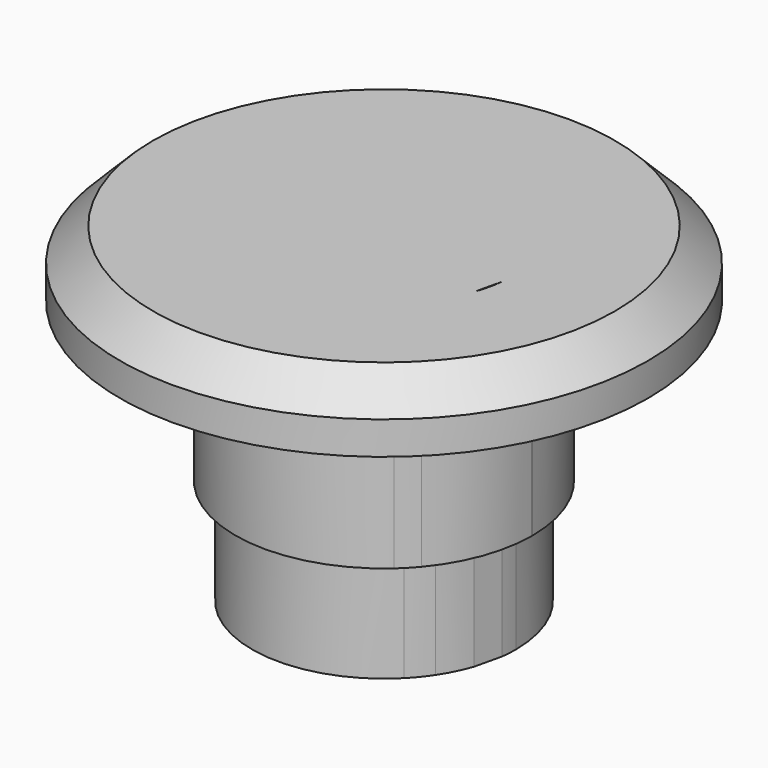
from build123d import *

# Parameters (mm, degrees)
F0_R     = 8
F1_DEPTH = 2
F2_DEPTH = 10
F3_SIZE  = 1
F4_DEPTH = 6.8


with BuildPart() as f1:
    # F0 (on Top) → F1 (new body)
    with BuildSketch(Plane.XY):
        Circle(F0_R)
        with BuildLine():
            Line((-0.4206175605, 4.6308473112), (-0.4206175605, 4.480299194))
            ThreePointArc((-0.4206175605, 4.480299194), (3.0296221693, 3.3273697587), (4.5, 0))
            ThreePointArc((4.5, 0), (4.4999743656, -0.0151891034), (4.4998974627, -0.0303780337))
            Line((4.4998974627, -0.0303780337), (4.81998135, -0.0303780337))
            Line((4.81998135, -0.0303780337), (3.914092806, -3.5892815224))
            Line((3.914092806, -3.5892815224), (3.0549396986, -3.5892815224))
            Line((3.0549396986, -3.5892815224), (2.9953533938, -3.3582522309))
            ThreePointArc((2.9953533938, -3.3582522309), (-1.8399605604, -4.1066464586), (-4.5, 0))
            Line((-4.5, 0), (-4.5284801459, 0))
            Line((-4.5284801459, 0), (-4.5284801459, 4.6308473112))
            Line((-4.5284801459, 4.6308473112), (-3.2899387989, 4.6308473112))
            Line((-3.2899387989, 4.6308473112), (-2.6946144665, 3.6040328629))
            ThreePointArc((-2.6946144665, 3.6040328629), (-2.0301577082, 4.0160253585), (-1.3044212058, 4.3067952491))
            Line((-1.3044212058, 4.3067952491), (-1.3044212058, 4.6308473112))
            Line((-1.3044212058, 4.6308473112), (-0.4206175605, 4.6308473112))
        make_face(mode=Mode.SUBTRACT)
        with BuildLine():
            Line((4.81998135, -0.0303780337), (4.4998974627, -0.0303780337))
            ThreePointArc((4.4998974627, -0.0303780337), (4.2245195635, -1.5503014087), (3.4513785085, -2.8875571667))
            add(Edge.make_bspline(
                [(3.449075213, -2.9053863018), (3.4501950312, -2.8965722486), (3.4513785085, -2.8875571667)],
                knots=[0, 0, 0, 0.0463757333, 0.0463757333, 0.0463757333], degree=2))
            add(Edge.make_bspline(
                [(3.4473158422, -2.8924061755), (3.4482086621, -2.8989381442), (3.449075213, -2.9053863018)],
                knots=[0.9672794895, 0.9672794895, 0.9672794895, 1, 1, 1], degree=2))
            ThreePointArc((3.4473158422, -2.8924061755), (3.2297445499, -3.133488494), (2.9953533938, -3.3582522309))
            Line((2.9953533938, -3.3582522309), (3.0549396986, -3.5892815224))
            Line((3.0549396986, -3.5892815224), (3.914092806, -3.5892815224))
            Line((3.914092806, -3.5892815224), (4.81998135, -0.0303780337))
        make_face()
        with BuildLine():
            Line((3.6243330998, -1.9730143438), (3.7775337391, -1.3153854378))
            ThreePointArc((3.7775337391, -1.3153854378), (3.582032846, -1.7801799601), (3.3296101941, -2.2166858043))
            add(Edge.make_bspline(
                [(3.3296101941, -2.2166858043), (3.3489440989, -2.3108458429), (3.3715722808, -2.4329689313)],
                knots=[0.5564798986, 0.5564798986, 0.5564798986, 1, 1, 1], degree=2))
            add(Edge.make_bspline(
                [(3.3715722808, -2.4329689313), (3.4209224143, -2.6993089647), (3.4473158422, -2.8924061755)],
                knots=[0, 0, 0, 0.9672794895, 0.9672794895, 0.9672794895], degree=2))
            ThreePointArc((3.4473158422, -2.8924061755), (3.4493480274, -2.889982385), (3.4513785085, -2.8875571667))
            add(Edge.make_bspline(
                [(3.4513785085, -2.8875571667), (3.4757143538, -2.7021800266), (3.5269676071, -2.4318005454)],
                knots=[0.0463757333, 0.0463757333, 0.0463757333, 1, 1, 1], degree=2))
            add(Edge.make_bspline(
                [(3.5269676071, -2.4318005454), (3.5807133591, -2.1482722307), (3.6243330998, -1.9730143438)],
                knots=[0, 0, 0, 1, 1, 1], degree=2))
        make_face()
        with BuildLine():
            add(Edge.make_bspline(
                [(3.449075213, -2.9053863018), (3.4501950312, -2.8965722486), (3.4513785085, -2.8875571667)],
                knots=[0, 0, 0, 0.0463757333, 0.0463757333, 0.0463757333], degree=2))
            ThreePointArc((3.4513785085, -2.8875571667), (3.4493480274, -2.889982385), (3.4473158422, -2.8924061755))
            add(Edge.make_bspline(
                [(3.4473158422, -2.8924061755), (3.4482086621, -2.8989381442), (3.449075213, -2.9053863018)],
                knots=[0.9672794895, 0.9672794895, 0.9672794895, 1, 1, 1], degree=2))
        make_face()
        with BuildLine():
            ThreePointArc((-3.3782910952, 2.9727343097), (-3.0528150871, 3.3061034533), (-2.6946144665, 3.6040328629))
            Line((-2.6946144665, 3.6040328629), (-3.2899387989, 4.6308473112))
            Line((-3.2899387989, 4.6308473112), (-4.5284801459, 4.6308473112))
            Line((-4.5284801459, 4.6308473112), (-4.5284801459, 0))
            Line((-4.5284801459, 0), (-4.5, 0))
            ThreePointArc((-4.5, 0), (-4.2853533562, 1.373224895), (-3.6618903945, 2.6154461834))
            add(Edge.make_bspline(
                [(-3.7115698957, 3.5027814199), (-3.6767769858, 2.9721895436), (-3.6618903945, 2.6154461834)],
                knots=[0, 0, 0, 0.5721372164, 0.5721372164, 0.5721372164], degree=2))
            Line((-3.7115698957, 3.5027814199), (-3.6831908796, 3.5027814199))
            Line((-3.6831908796, 3.5027814199), (-3.3782910952, 2.9727343097))
        make_face()
        with BuildLine():
            ThreePointArc((-1.3044212058, 4.3067952491), (-0.8668711502, 4.4157144845), (-0.4206175605, 4.480299194))
            Line((-0.4206175605, 4.480299194), (-0.4206175605, 4.6308473112))
            Line((-0.4206175605, 4.6308473112), (-1.3044212058, 4.6308473112))
            Line((-1.3044212058, 4.6308473112), (-1.3044212058, 4.3067952491))
        make_face()
        with BuildLine():
            ThreePointArc((-3.6618903945, 2.6154461834), (-3.5246209092, 2.797686088), (-3.3782910952, 2.9727343097))
            Line((-3.3782910952, 2.9727343097), (-3.6831908796, 3.5027814199))
            Line((-3.6831908796, 3.5027814199), (-3.7115698957, 3.5027814199))
            add(Edge.make_bspline(
                [(-3.7115698957, 3.5027814199), (-3.6767769858, 2.9721895436), (-3.6618903945, 2.6154461834)],
                knots=[0, 0, 0, 0.5721372164, 0.5721372164, 0.5721372164], degree=2))
        make_face()
    extrude(amount=-F1_DEPTH)

    # F0 (on Top) → F2 (join)
    with BuildSketch(Plane.XY):
        with BuildLine():
            ThreePointArc((3.969940759, -0.4894592628), (3.9924781174, -0.2451907053), (4, 0))
            ThreePointArc((4, 0), (2.6755868289, 2.9734214503), (-0.4206175605, 3.9778236346))
            Line((-0.4206175605, 3.9778236346), (-0.4206175605, 0))
            Line((-0.4206175605, 0), (-1.6682807341, 0))
            Line((-1.6682807341, 0), (-3.1130920504, 2.5117041796))
            ThreePointArc((-3.1130920504, 2.5117041796), (-3.410240025, 2.0905173934), (-3.6507577183, 1.6346155763))
            Line((-3.6507577183, 1.6346155763), (-3.6507577183, 0))
            Line((-3.6507577183, 0), (-4, 0))
            ThreePointArc((-4, 0), (-1.5149568149, -3.7020137559), (2.8524529245, -2.8041954842))
            Line((2.8524529245, -2.8041954842), (2.5727857788, -1.7198640628))
            add(Edge.make_bspline(
                [(2.5727857788, -1.7198640628), (2.5463023648, -1.6201617983), (2.4816516776, -1.3074238358)],
                knots=[0, 0, 0, 1, 1, 1], degree=2))
            add(Edge.make_bspline(
                [(2.4816516776, -1.3074238358), (2.4170009905, -0.9946858733), (2.4076539032, -0.8871943694)],
                knots=[0, 0, 0, 1, 1, 1], degree=2))
            add(Edge.make_bspline(
                [(2.4076539032, -0.8871943694), (2.3928543483, -1.0188325155), (2.3344350527, -1.3097606076)],
                knots=[0, 0, 0, 1, 1, 1], degree=2))
            add(Edge.make_bspline(
                [(2.3344350527, -1.3097606076), (2.2760157571, -1.6006886998), (2.2440798755, -1.7245376065)],
                knots=[0, 0, 0, 1, 1, 1], degree=2))
            Line((2.2440798755, -1.7245376065), (1.7650416514, -3.5892815224))
            Line((1.7650416514, -3.5892815224), (0.9082253158, -3.5892815224))
            Line((0.9082253158, -3.5892815224), (0, -0.0303780337))
            Line((0, -0.0303780337), (0.7423145162, -0.0303780337))
            Line((0.7423145162, -0.0303780337), (1.197985022, -1.9730143438))
            add(Edge.make_bspline(
                [(1.197985022, -1.9730143438), (1.3171603851, -2.5112507874), (1.3701272131, -2.9053863018)],
                knots=[0, 0, 0, 1, 1, 1], degree=2))
            add(Edge.make_bspline(
                [(1.3701272131, -2.9053863018), (1.384926768, -2.7667378402), (1.437504134, -2.4758097481)],
                knots=[0, 0, 0, 1, 1, 1], degree=2))
            add(Edge.make_bspline(
                [(1.437504134, -2.4758097481), (1.4900815001, -2.1848816559), (1.5360380126, -2.024423324)],
                knots=[0, 0, 0, 1, 1, 1], degree=2))
            Line((1.5360380126, -2.024423324), (2.0548013577, -0.0303780337))
            Line((2.0548013577, -0.0303780337), (2.7675167642, -0.0303780337))
            Line((2.7675167642, -0.0303780337), (3.2862801092, -2.024423324))
            add(Edge.make_bspline(
                [(3.2862801092, -2.024423324), (3.3053521519, -2.0985442172), (3.3296101941, -2.2166858043)],
                knots=[0, 0, 0, 0.5564798986, 0.5564798986, 0.5564798986], degree=2))
            ThreePointArc((3.3296101941, -2.2166858043), (3.582032846, -1.7801799601), (3.7775337391, -1.3153854378))
            Line((3.7775337391, -1.3153854378), (3.969940759, -0.4894592628))
        make_face()
        with BuildLine():
            Line((-3.6507577183, 0), (-3.6507577183, 1.6346155763))
            ThreePointArc((-3.6507577183, 1.6346155763), (-3.9117151528, 0.8357538893), (-4, 0))
            Line((-4, 0), (-3.6507577183, 0))
        make_face()
        with BuildLine():
            Line((-1.3044212058, 2.4385683149), (-1.3044212058, 3.7813338014))
            ThreePointArc((-1.3044212058, 3.7813338014), (-1.8980842541, 3.5209765924), (-2.4418962915, 3.1681449622))
            Line((-2.4418962915, 3.1681449622), (-1.2790827986, 1.1625261252))
            Line((-1.2790827986, 1.1625261252), (-1.2567850002, 1.1625261252))
            add(Edge.make_bspline(
                [(-1.2567850002, 1.1625261252), (-1.3044212058, 2.06558696), (-1.3044212058, 2.4385683149)],
                knots=[0, 0, 0, 1, 1, 1], degree=2))
        make_face()
        with BuildLine():
            ThreePointArc((2.8524529245, -2.8041954842), (3.104958616, -2.5217517707), (3.3296101941, -2.2166858043))
            add(Edge.make_bspline(
                [(3.2862801092, -2.024423324), (3.3053521519, -2.0985442172), (3.3296101941, -2.2166858043)],
                knots=[0, 0, 0, 0.5564798986, 0.5564798986, 0.5564798986], degree=2))
            Line((3.2862801092, -2.024423324), (2.7675167642, -0.0303780337))
            Line((2.7675167642, -0.0303780337), (2.0548013577, -0.0303780337))
            Line((2.0548013577, -0.0303780337), (1.5360380126, -2.024423324))
            add(Edge.make_bspline(
                [(1.437504134, -2.4758097481), (1.4900815001, -2.1848816559), (1.5360380126, -2.024423324)],
                knots=[0, 0, 0, 1, 1, 1], degree=2))
            add(Edge.make_bspline(
                [(1.3701272131, -2.9053863018), (1.384926768, -2.7667378402), (1.437504134, -2.4758097481)],
                knots=[0, 0, 0, 1, 1, 1], degree=2))
            add(Edge.make_bspline(
                [(1.197985022, -1.9730143438), (1.3171603851, -2.5112507874), (1.3701272131, -2.9053863018)],
                knots=[0, 0, 0, 1, 1, 1], degree=2))
            Line((1.197985022, -1.9730143438), (0.7423145162, -0.0303780337))
            Line((0.7423145162, -0.0303780337), (0, -0.0303780337))
            Line((0, -0.0303780337), (0.9082253158, -3.5892815224))
            Line((0.9082253158, -3.5892815224), (1.7650416514, -3.5892815224))
            Line((1.7650416514, -3.5892815224), (2.2440798755, -1.7245376065))
            add(Edge.make_bspline(
                [(2.3344350527, -1.3097606076), (2.2760157571, -1.6006886998), (2.2440798755, -1.7245376065)],
                knots=[0, 0, 0, 1, 1, 1], degree=2))
            add(Edge.make_bspline(
                [(2.4076539032, -0.8871943694), (2.3928543483, -1.0188325155), (2.3344350527, -1.3097606076)],
                knots=[0, 0, 0, 1, 1, 1], degree=2))
            add(Edge.make_bspline(
                [(2.4816516776, -1.3074238358), (2.4170009905, -0.9946858733), (2.4076539032, -0.8871943694)],
                knots=[0, 0, 0, 1, 1, 1], degree=2))
            add(Edge.make_bspline(
                [(2.5727857788, -1.7198640628), (2.5463023648, -1.6201617983), (2.4816516776, -1.3074238358)],
                knots=[0, 0, 0, 1, 1, 1], degree=2))
            Line((2.5727857788, -1.7198640628), (2.8524529245, -2.8041954842))
        make_face()
        with BuildLine():
            Line((-0.4206175605, 0), (-0.4206175605, 3.9778236346))
            ThreePointArc((-0.4206175605, 3.9778236346), (-0.8680966248, 3.9046649344), (-1.3044212058, 3.7813338014))
            Line((-1.3044212058, 3.7813338014), (-1.3044212058, 2.4385683149))
            add(Edge.make_bspline(
                [(-1.2567850002, 1.1625261252), (-1.3044212058, 2.06558696), (-1.3044212058, 2.4385683149)],
                knots=[0, 0, 0, 1, 1, 1], degree=2))
            Line((-1.2567850002, 1.1625261252), (-1.2790827986, 1.1625261252))
            Line((-1.2790827986, 1.1625261252), (-2.4418962915, 3.1681449622))
            ThreePointArc((-2.4418962915, 3.1681449622), (-2.7968200684, 2.8596848612), (-3.1130920504, 2.5117041796))
            Line((-3.1130920504, 2.5117041796), (-1.6682807341, 0))
            Line((-1.6682807341, 0), (-0.4206175605, 0))
        make_face()
    extrude(amount=-F2_DEPTH)

    # F3
    f3_edges = [f1.edges().sort_by_distance(p)[0] for p in [
        (-8, 0, 0),
    ]]
    chamfer(f3_edges, length=F3_SIZE)

    # F0 (on Top) → F4 (join)
    with BuildSketch(Plane.XY):
        with BuildLine():
            Line((4.0768879098, -0.0303780337), (3.969940759, -0.4894592628))
            ThreePointArc((3.969940759, -0.4894592628), (3.8956872033, -0.907535792), (3.7775337391, -1.3153854378))
            Line((3.7775337391, -1.3153854378), (3.6243330998, -1.9730143438))
            add(Edge.make_bspline(
                [(3.5269676071, -2.4318005454), (3.5807133591, -2.1482722307), (3.6243330998, -1.9730143438)],
                knots=[0, 0, 0, 1, 1, 1], degree=2))
            add(Edge.make_bspline(
                [(3.4513785085, -2.8875571667), (3.4757143538, -2.7021800266), (3.5269676071, -2.4318005454)],
                knots=[0.0463757333, 0.0463757333, 0.0463757333, 1, 1, 1], degree=2))
            ThreePointArc((3.4513785085, -2.8875571667), (4.2245195635, -1.5503014087), (4.4998974627, -0.0303780337))
            Line((4.4998974627, -0.0303780337), (4.0768879098, -0.0303780337))
        make_face()
        with BuildLine():
            Line((3.6243330998, -1.9730143438), (3.7775337391, -1.3153854378))
            ThreePointArc((3.7775337391, -1.3153854378), (3.582032846, -1.7801799601), (3.3296101941, -2.2166858043))
            add(Edge.make_bspline(
                [(3.3296101941, -2.2166858043), (3.3489440989, -2.3108458429), (3.3715722808, -2.4329689313)],
                knots=[0.5564798986, 0.5564798986, 0.5564798986, 1, 1, 1], degree=2))
            add(Edge.make_bspline(
                [(3.3715722808, -2.4329689313), (3.4209224143, -2.6993089647), (3.4473158422, -2.8924061755)],
                knots=[0, 0, 0, 0.9672794895, 0.9672794895, 0.9672794895], degree=2))
            ThreePointArc((3.4473158422, -2.8924061755), (3.4493480274, -2.889982385), (3.4513785085, -2.8875571667))
            add(Edge.make_bspline(
                [(3.4513785085, -2.8875571667), (3.4757143538, -2.7021800266), (3.5269676071, -2.4318005454)],
                knots=[0.0463757333, 0.0463757333, 0.0463757333, 1, 1, 1], degree=2))
            add(Edge.make_bspline(
                [(3.5269676071, -2.4318005454), (3.5807133591, -2.1482722307), (3.6243330998, -1.9730143438)],
                knots=[0, 0, 0, 1, 1, 1], degree=2))
        make_face()
        with BuildLine():
            add(Edge.make_bspline(
                [(3.3296101941, -2.2166858043), (3.3489440989, -2.3108458429), (3.3715722808, -2.4329689313)],
                knots=[0.5564798986, 0.5564798986, 0.5564798986, 1, 1, 1], degree=2))
            ThreePointArc((3.3296101941, -2.2166858043), (3.104958616, -2.5217517707), (2.8524529245, -2.8041954842))
            Line((2.8524529245, -2.8041954842), (2.9953533938, -3.3582522309))
            ThreePointArc((2.9953533938, -3.3582522309), (3.2297445499, -3.133488494), (3.4473158422, -2.8924061755))
            add(Edge.make_bspline(
                [(3.3715722808, -2.4329689313), (3.4209224143, -2.6993089647), (3.4473158422, -2.8924061755)],
                knots=[0, 0, 0, 0.9672794895, 0.9672794895, 0.9672794895], degree=2))
        make_face()
        with BuildLine():
            Line((2.9953533938, -3.3582522309), (2.8524529245, -2.8041954842))
            ThreePointArc((2.8524529245, -2.8041954842), (-1.5149568149, -3.7020137559), (-4, 0))
            Line((-4, 0), (-4.5, 0))
            ThreePointArc((-4.5, 0), (-1.8399605604, -4.1066464586), (2.9953533938, -3.3582522309))
        make_face()
        with BuildLine():
            ThreePointArc((-0.4206175605, 3.9778236346), (2.6755868289, 2.9734214503), (4, 0))
            ThreePointArc((4, 0), (3.9924781174, -0.2451907053), (3.969940759, -0.4894592628))
            Line((3.969940759, -0.4894592628), (4.0768879098, -0.0303780337))
            Line((4.0768879098, -0.0303780337), (4.4998974627, -0.0303780337))
            ThreePointArc((4.4998974627, -0.0303780337), (4.4999743656, -0.0151891034), (4.5, 0))
            ThreePointArc((4.5, 0), (3.0296221693, 3.3273697587), (-0.4206175605, 4.480299194))
            Line((-0.4206175605, 4.480299194), (-0.4206175605, 3.9778236346))
        make_face()
        with BuildLine():
            ThreePointArc((-1.3044212058, 3.7813338014), (-0.8680966248, 3.9046649344), (-0.4206175605, 3.9778236346))
            Line((-0.4206175605, 3.9778236346), (-0.4206175605, 4.480299194))
            ThreePointArc((-0.4206175605, 4.480299194), (-0.8668711502, 4.4157144845), (-1.3044212058, 4.3067952491))
            Line((-1.3044212058, 4.3067952491), (-1.3044212058, 3.7813338014))
        make_face()
        with BuildLine():
            ThreePointArc((-2.4418962915, 3.1681449622), (-1.8980842541, 3.5209765924), (-1.3044212058, 3.7813338014))
            Line((-1.3044212058, 3.7813338014), (-1.3044212058, 4.3067952491))
            ThreePointArc((-1.3044212058, 4.3067952491), (-2.0301577082, 4.0160253585), (-2.6946144665, 3.6040328629))
            Line((-2.6946144665, 3.6040328629), (-2.4418962915, 3.1681449622))
        make_face()
        with BuildLine():
            ThreePointArc((-3.1130920504, 2.5117041796), (-2.7968200684, 2.8596848612), (-2.4418962915, 3.1681449622))
            Line((-2.4418962915, 3.1681449622), (-2.6946144665, 3.6040328629))
            ThreePointArc((-2.6946144665, 3.6040328629), (-3.0528150871, 3.3061034533), (-3.3782910952, 2.9727343097))
            Line((-3.3782910952, 2.9727343097), (-3.1130920504, 2.5117041796))
        make_face()
        with BuildLine():
            ThreePointArc((-4, 0), (-3.9117151528, 0.8357538893), (-3.6507577183, 1.6346155763))
            Line((-3.6507577183, 1.6346155763), (-3.6507577183, 2.1791030245))
            add(Edge.make_bspline(
                [(-3.6618903945, 2.6154461834), (-3.6507577183, 2.3486619178), (-3.6507577183, 2.1791030245)],
                knots=[0.5721372164, 0.5721372164, 0.5721372164, 1, 1, 1], degree=2))
            ThreePointArc((-3.6618903945, 2.6154461834), (-4.2853533562, 1.373224895), (-4.5, 0))
            Line((-4.5, 0), (-4, 0))
        make_face()
        with BuildLine():
            ThreePointArc((-3.6507577183, 1.6346155763), (-3.410240025, 2.0905173934), (-3.1130920504, 2.5117041796))
            Line((-3.1130920504, 2.5117041796), (-3.3782910952, 2.9727343097))
            ThreePointArc((-3.3782910952, 2.9727343097), (-3.5246209092, 2.797686088), (-3.6618903945, 2.6154461834))
            add(Edge.make_bspline(
                [(-3.6618903945, 2.6154461834), (-3.6507577183, 2.3486619178), (-3.6507577183, 2.1791030245)],
                knots=[0.5721372164, 0.5721372164, 0.5721372164, 1, 1, 1], degree=2))
            Line((-3.6507577183, 2.1791030245), (-3.6507577183, 1.6346155763))
        make_face()
    extrude(amount=-F4_DEPTH)


solid = f1.part
